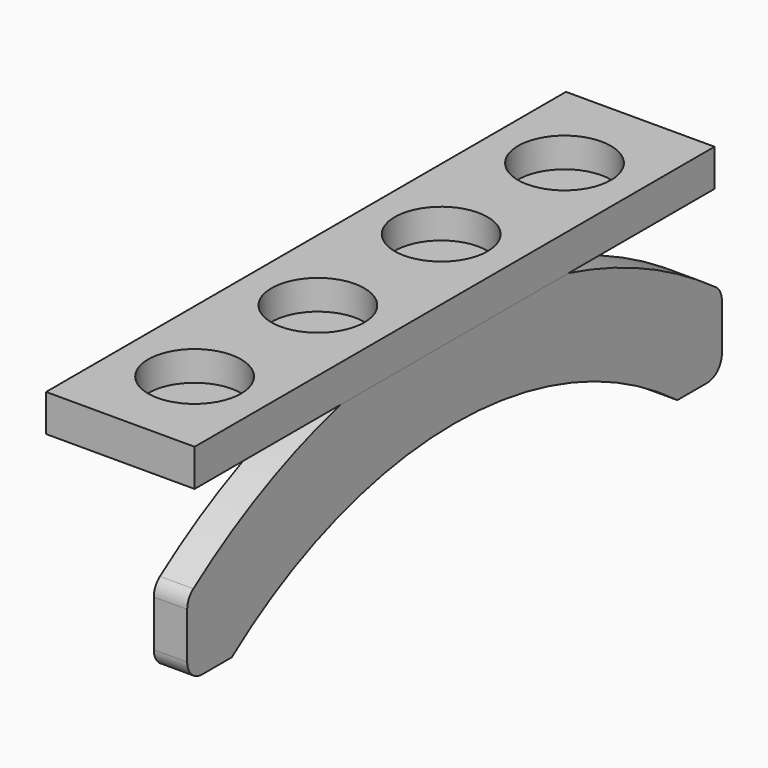
from build123d import *

# Parameters (mm, degrees)
F1_DEPTH = 18
F2_W     = 80
F2_H     = 350
F3_DEPTH = 20
F4_R     = 25
F5_DEPTH = 16


with BuildPart() as f1:
    # F0 (on Right) → F1 (new body)
    with BuildSketch(Plane.YZ):
        with BuildLine():
            ThreePointArc((-150, 0), (0, 50), (150, 0))
            Line((150, 0), (170, 0))
            ThreePointArc((170, 0), (177.071068, 2.928932), (180, 10))
            Line((180, 10), (180, 34.946802))
            ThreePointArc((180, 34.946802), (178.905636, 39.495391), (175.862069, 43.048416))
            ThreePointArc((175.862069, 43.048416), (128.49938, 71.086535), (76.811457, 90))
            Line((76.811457, 90), (-76.811457, 90))
            ThreePointArc((-76.811457, 90), (-128.49938, 71.086535), (-175.862069, 43.048416))
            ThreePointArc((-175.862069, 43.048416), (-178.905636, 39.495391), (-180, 34.946802))
            Line((-180, 34.946802), (-180, 10))
            ThreePointArc((-180, 10), (-177.071068, 2.928932), (-170, 0))
            Line((-170, 0), (-150, 0))
        make_face()
    extrude(amount=F1_DEPTH)


with BuildPart() as f3:
    # F2 (on face) → F3 (new body)
    with BuildSketch(Plane.XY.offset(90)):
        with Locations((-22, 0)):
            Rectangle(F2_W, F2_H)
    extrude(amount=F3_DEPTH)

    # F4 (on face) → F5 (cut)
    with BuildSketch(Plane.XY.offset(110)):
        with Locations((-22, -125)):
            Circle(F4_R)
        with Locations((-22, -42)):
            Circle(F4_R)
        with Locations((-22, 41)):
            Circle(F4_R)
        with Locations((-22, 124)):
            Circle(F4_R)
    extrude(amount=-F5_DEPTH, mode=Mode.SUBTRACT)


solid = Compound([f1.part, f3.part])
